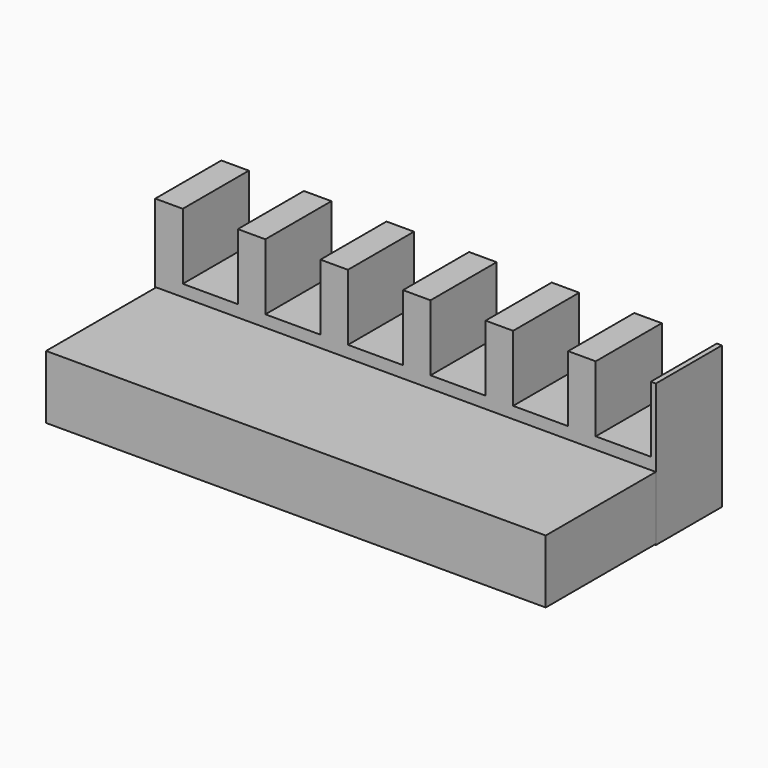
from build123d import *

# Parameters (mm, degrees)
F0_W     = 115.471501
F0_H     = 32.801882
F1_DEPTH = 19.05
F2_W     = 115.249865
F2_H     = 14.627867
F3_DEPTH = 50.8
F4_W     = 12.7
F4_H     = 15.24
F5_DEPTH = 19.05


with BuildPart() as f1:
    # F0 (on Front) → F1 (new body)
    with BuildSketch(Plane.XZ):
        with Locations((0.110819, -13.962963)):
            Rectangle(F0_W, F0_H)
    extrude(amount=F1_DEPTH)

    # F2 (on Front) → F3 (join)
    with BuildSketch(Plane.XZ):
        with Locations((0.221636, -22.828339)):
            Rectangle(F2_W, F2_H)
    extrude(amount=F3_DEPTH)

    # F4 (on face) → F5 (cut)
    with BuildSketch(Plane(origin=(0, 0, 0), x_dir=(-1, 0, 0), z_dir=(0, 1, 0))):
        with Locations((44.924932, -5.182022)):
            Rectangle(F4_W, F4_H)
        with Locations((25.874932, -5.182022)):
            Rectangle(F4_W, F4_H)
        with Locations((6.824932, -5.182022)):
            Rectangle(F4_W, F4_H)
        with Locations((-12.225068, -5.182022)):
            Rectangle(F4_W, F4_H)
        with Locations((-31.275068, -5.182022)):
            Rectangle(F4_W, F4_H)
        with Locations((-50.325068, -5.182022)):
            Rectangle(F4_W, F4_H)
    extrude(amount=-F5_DEPTH, mode=Mode.SUBTRACT)


solid = f1.part
